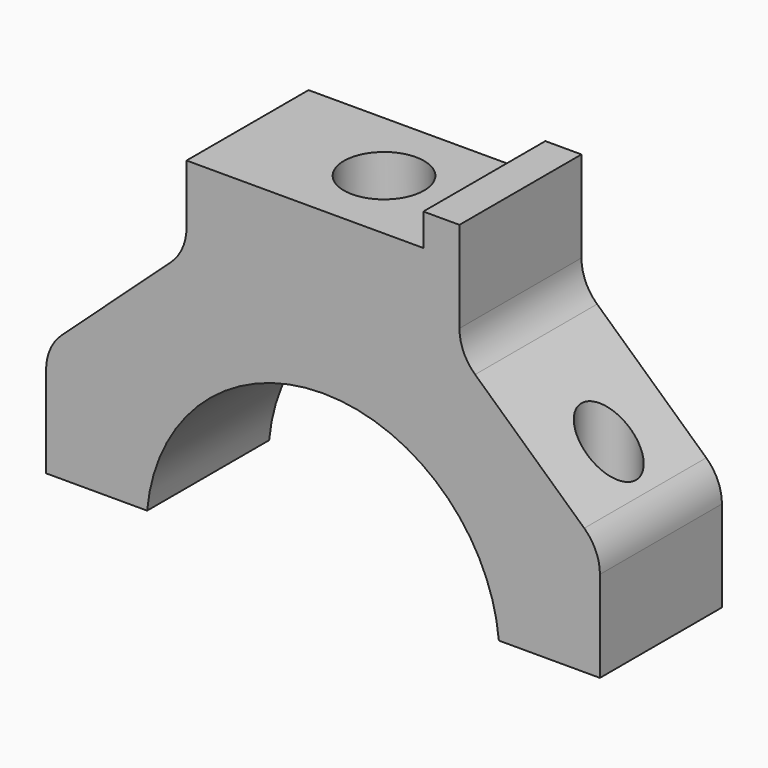
from build123d import *

# Parameters (mm, degrees)
F1_DEPTH  = 9.5
F2_R      = 3.4
F3_DEPTH  = 23.0524285714
F5_W      = 29.5
F5_H      = 19
F6_DEPTH  = 4
F7_R      = 8
F8_DEPTH  = 40.001
F9_R      = 8
F9_R_2    = 5
F10_DEPTH = 11.5
F11_R     = 6


with BuildPart() as f1:
    # F0 (on Front) → F1 (new body, symmetric)
    with BuildSketch(Plane.XZ):
        with BuildLine():
            Line((-34.5, 2), (-21.9089023002, 2))
            ThreePointArc((-21.9089023002, 2), (-14.8323969742, 16.2480768093), (0, 22))
            Line((0, 22), (0, 46))
            Line((0, 46), (-17, 46))
            Line((-17, 46), (-17, 32))
            Line((-17, 32), (-34.5, 16))
            Line((-34.5, 16), (-34.5, 2))
        make_face()
    extrude(amount=F1_DEPTH, both=True)

    # F2 (on face) → F3 (cut, through all)
    with BuildSketch(Plane(origin=(0, 0, 2), x_dir=(1, 0, 0), z_dir=(0, 0, -1))):
        with Locations((-28, 0)):
            Circle(F2_R)
    extrude(amount=-F3_DEPTH, mode=Mode.SUBTRACT)

    # F4: F1 across plane


with BuildPart() as f1_1:
    add(f1.part)
    add(f1.part.mirror(Plane.YZ))

    # F5 (on face) → F6 (cut)
    with BuildSketch(Plane.XY.offset(46)):
        with Locations((-2.25, 0)):
            Rectangle(F5_W, F5_H)
    extrude(amount=-F6_DEPTH, mode=Mode.SUBTRACT)

    # F7 (on face) → F8 (cut, through all)
    with BuildSketch(Plane.XY.offset(42)):
        Circle(F7_R)
    extrude(amount=-F8_DEPTH, mode=Mode.SUBTRACT)

    # F9 (on face) → F10 (join)
    with BuildSketch(Plane.XY.offset(42)):
        Circle(F9_R)
        Circle(F9_R_2, mode=Mode.SUBTRACT)
    extrude(amount=-F10_DEPTH)

    # F11
    f11_edges = [f1_1.edges().sort_by_distance(p)[0] for p in [
        (-34.5, 0, 16),
        (34.5, 0, 16),
        (-17, 0, 32),
        (17, 0, 32),
    ]]
    fillet(f11_edges, radius=F11_R)


solid = f1_1.part
